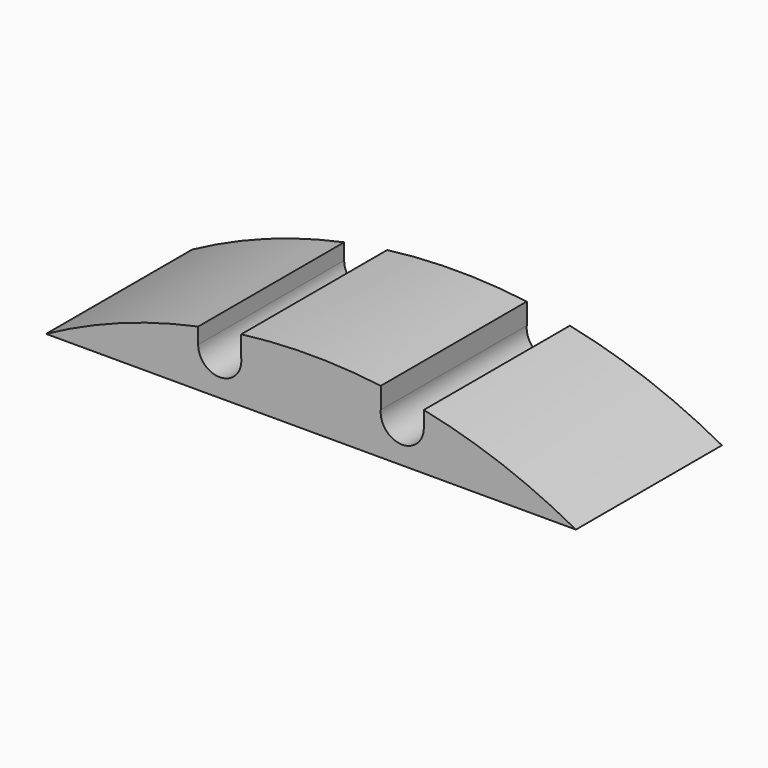
from build123d import *

# Parameters (mm, degrees)
F1_DEPTH = 25.4


with BuildPart() as f1:
    # F0 (on Front) → F1 (new body)
    with BuildSketch(Plane.XZ):
        with BuildLine():
            Line((-36.8707050923, 67.6275), (36.8707050923, 67.6275))
            ThreePointArc((36.8707050923, 67.6275), (26.5741043582, 72.2962283097), (15.705, 75.4074308358))
            Line((15.705, 75.4074308358), (15.705, 73.1806760713))
            ThreePointArc((15.705, 73.1806760713), (12.5580129473, 70.1790324087), (9.7084178523, 73.4643330011))
            Line((9.7084178523, 73.4643330011), (9.7084178523, 76.4112182409))
            ThreePointArc((9.7084178523, 76.4112182409), (-0.0017087982, 77.025499981), (-9.7118081837, 76.4107874063))
            Line((-9.7118081837, 76.4107874063), (-9.7118081837, 73.498063325))
            ThreePointArc((-9.7118081837, 73.498063325), (-9.699204988, 73.3395920741), (-9.695, 73.1806760713))
            ThreePointArc((-9.695, 73.1806760713), (-12.7, 70.1756760713), (-15.705, 73.1806760713))
            Line((-15.705, 73.1806760713), (-15.705, 75.4074308358))
            ThreePointArc((-15.705, 75.4074308358), (-26.5741043582, 72.2962283097), (-36.8707050923, 67.6275))
        make_face()
    extrude(amount=F1_DEPTH)


solid = f1.part
